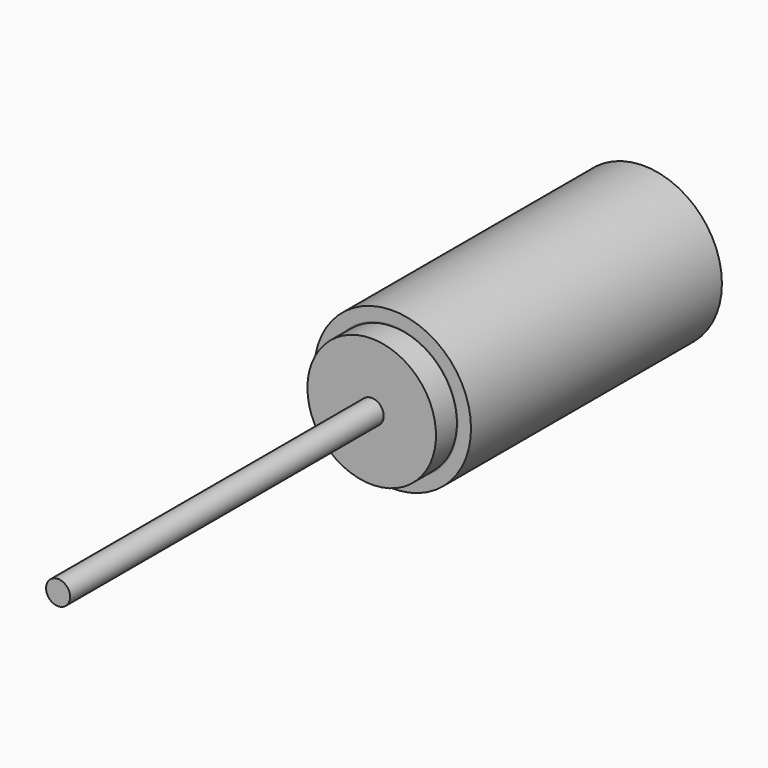
from build123d import *

# Parameters (mm, degrees)
F0_R      = 38.1
F1_DEPTH  = 76.2
F2_T      = -6.35
F3_R      = 31.75
F4_DEPTH  = 3.175
F5_R      = 6.35
F6_DEPTH  = 152.401
F7_R      = 5.842
F8_DEPTH  = 203.2
F9_R      = 31.242
F9_R_2    = 5.842
F10_DEPTH = 12.7


with BuildPart() as f1:
    # F0 (on Front) → F1 (new body, symmetric)
    with BuildSketch(Plane.XZ):
        Circle(F0_R)
    extrude(amount=F1_DEPTH, both=True)

    # F2
    f2_openings = [f1.faces().sort_by_distance(p)[0] for p in [
        (0, -76.2, 0),
    ]]
    offset(amount=F2_T, openings=f2_openings)


with BuildPart() as f4:
    # F3 (on face) → F4 (new body)
    with BuildSketch(Plane.XZ.offset(76.2)):
        Circle(F3_R)
    extrude(amount=-F4_DEPTH)

    # F5 (on face) → F6 (cut, through all)
    with BuildSketch(Plane.XZ.offset(76.2)):
        Circle(F5_R)
    extrude(amount=-F6_DEPTH, mode=Mode.SUBTRACT)


with BuildPart() as f8:
    # F7 (on face) → F8 (new body)
    with BuildSketch(Plane.XZ.offset(76.2)):
        Circle(F7_R)
    extrude(amount=F8_DEPTH)


with BuildPart() as f10:
    # F9 (on face) → F10 (new body)
    with BuildSketch(Plane(origin=(0, -76.2, 0), x_dir=(-1, 0, 0), z_dir=(0, 1, 0))):
        Circle(F9_R)
        Circle(F9_R_2, mode=Mode.SUBTRACT)
    extrude(amount=-F10_DEPTH)


solid = Compound([f1.part, f4.part, f8.part, f10.part])
